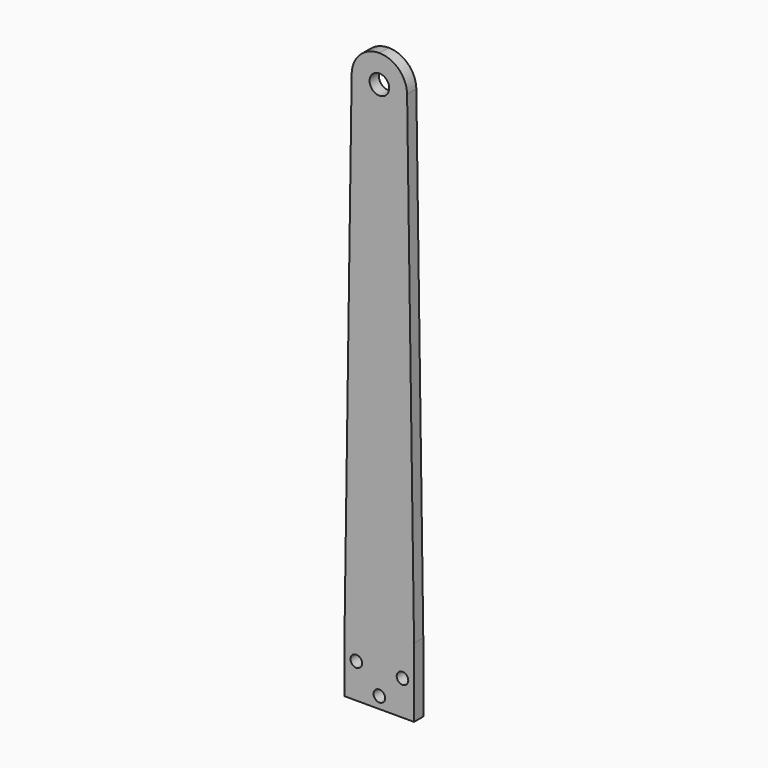
from build123d import *

# Parameters (mm, degrees)
F0_R     = 2.5
F0_R_2   = 4.25
F1_DEPTH = 5


with BuildPart() as f1:
    # F0 (on Front) → F1 (new body)
    with BuildSketch(Plane.XZ):
        with BuildLine():
            Line((-15, -95), (-15, -125))
            Line((-15, -125), (15, -125))
            Line((15, -125), (15, -95))
            Line((15, -95), (11.998753, 113.172987))
            ThreePointArc((11.998753, 113.172987), (8.423899, 121.546223), (0, 125))
            ThreePointArc((0, 125), (-8.423899, 121.546223), (-11.998753, 113.172987))
            Line((-11.998753, 113.172987), (-15, -95))
        make_face()
        with Locations((-10, -110)):
            Circle(F0_R, mode=Mode.SUBTRACT)
        with Locations((0, -120)):
            Circle(F0_R, mode=Mode.SUBTRACT)
        with Locations((10, -110)):
            Circle(F0_R, mode=Mode.SUBTRACT)
        with Locations((0, 113)):
            Circle(F0_R_2, mode=Mode.SUBTRACT)
    extrude(amount=F1_DEPTH)


solid = f1.part
